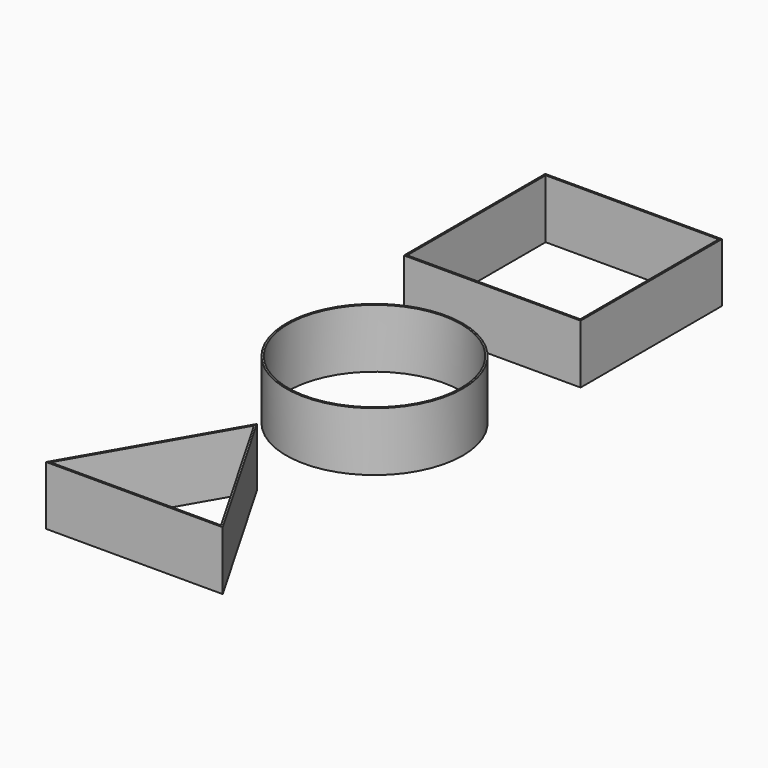
from build123d import *

# Parameters (mm, degrees)
F0_R     = 15
F0_R_2   = 14.7
F0_W     = 30
F0_H     = 30
F0_W_2   = 29.4
F0_H_2   = 29.4
F1_DEPTH = 10


with BuildPart() as f1:
    # F0 (on Top) → F1 (new body)
    with BuildSketch(Plane.XY):
        Circle(F0_R)
        Circle(F0_R_2, mode=Mode.SUBTRACT)
        with Locations((0, 40)):
            Rectangle(F0_W, F0_H)
        with Locations((0, 40)):
            Rectangle(F0_W_2, F0_H_2, mode=Mode.SUBTRACT)
        Polygon((15, -50.980762), (0, -25), (-15, -50.980762), align=None)
        Polygon((-14.480385, -50.680762), (0, -25.6), (14.480385, -50.680762), align=None, mode=Mode.SUBTRACT)
    extrude(amount=F1_DEPTH)


solid = f1.part
